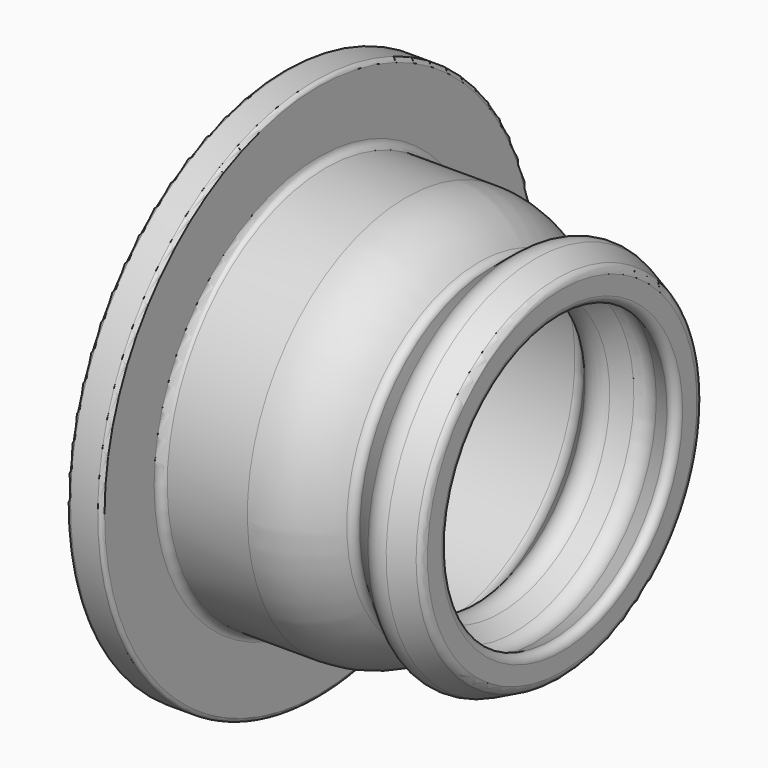
from build123d import *


with BuildPart() as f1:
    # F0 (on Front) → F1 (revolve)
    with BuildSketch(Plane.XZ):
        with BuildLine():
            ThreePointArc((0, 4.840927), (-0.039104, 4.975088), (-0.144169, 5.067227))
            Line((-0.144169, 5.067227), (-0.771505, 5.359759))
            ThreePointArc((-0.771505, 5.359759), (-1.074538, 5.406693), (-1.355562, 5.283987))
            Line((-1.355562, 5.283987), (-2.048384, 4.707081))
            ThreePointArc((-2.048384, 4.707081), (-2.230863, 4.650302), (-2.400044, 4.739185))
            Line((-2.400044, 4.739185), (-2.375587, 4.709814))
            ThreePointArc((-2.375587, 4.709814), (-3.321859, 5.440178), (-4.48863, 5.7))
            Line((-4.48863, 5.7), (-6.790753, 5.7))
            ThreePointArc((-6.790753, 5.7), (-6.938713, 5.761287), (-7, 5.909247))
            Line((-7, 5.909247), (-7, 7.690753))
            ThreePointArc((-7, 7.690753), (-7.031998, 7.768002), (-7.109247, 7.8))
            Line((-7.109247, 7.8), (-7.890753, 7.8))
            ThreePointArc((-7.890753, 7.8), (-7.968002, 7.768002), (-8, 7.690753))
            Line((-8, 7.690753), (-8, 4.909247))
            ThreePointArc((-8, 4.909247), (-7.968002, 4.831998), (-7.890753, 4.8))
            Line((-7.890753, 4.8), (-3.473785, 4.8))
            ThreePointArc((-3.473785, 4.8), (-3.240534, 4.748059), (-3.051364, 4.602051))
            Line((-3.051364, 4.602051), (-2.562775, 4.015291))
            ThreePointArc((-2.562775, 4.015291), (-2.190329, 3.819618), (-1.788608, 3.944615))
            Line((-1.788608, 3.944615), (-1.371899, 4.291605))
            ThreePointArc((-1.371899, 4.291605), (-1.090874, 4.414311), (-0.787842, 4.367377))
            Line((-0.787842, 4.367377), (-0.297679, 4.13881))
            ThreePointArc((-0.297679, 4.13881), (-0.096819, 4.151975), (0, 4.328453))
            Line((0, 4.328453), (0, 4.840927))
        make_face()
    revolve(axis=Axis((-21.787609, 0, 0), (-1, 0, 0)))


solid = f1.part
